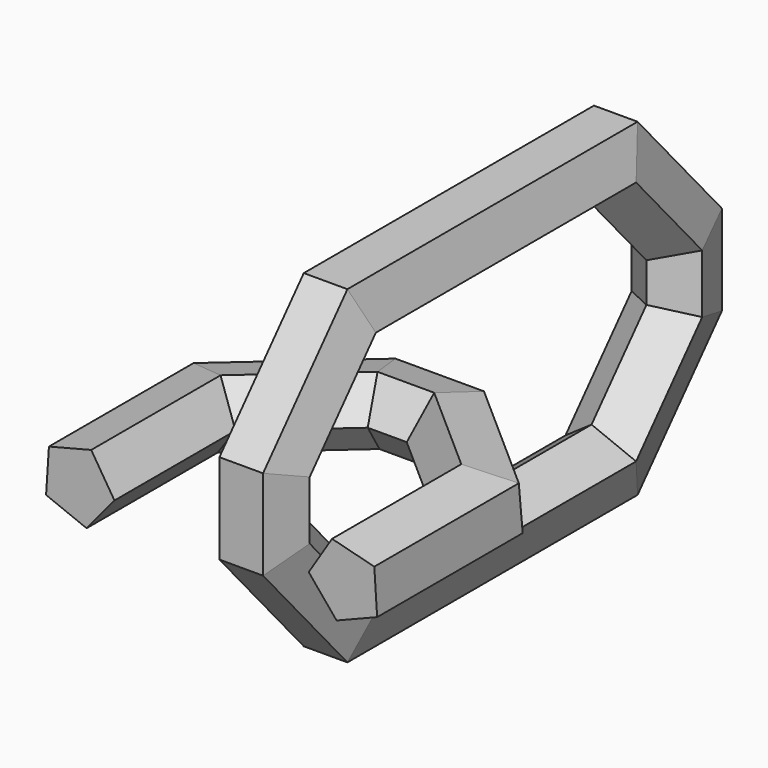
from build123d import *


with BuildPart() as f2:
    # F2: sweep along a path in F1
    with BuildLine(Plane.YZ) as f2_path:
        Line((-9.7155, 6.3547654803), (-9.7155, 3.8052345197))
        Line((-9.7155, 3.8052345197), (-6.35, 0))
        Line((-6.35, 0), (6.35, 0))
        Line((6.35, 0), (9.7155, 3.8052345197))
        Line((9.7155, 3.8052345197), (9.7155, 6.3547654803))
        Line((9.7155, 6.3547654803), (6.35, 10.16))
        Line((6.35, 10.16), (-6.35, 10.16))
        Line((-6.35, 10.16), (-9.7155, 6.3547654803))
    # F0 (on Front) → F2 (sweep)
    with BuildSketch(Plane.XZ):
        Polygon((0, 1.4040774674), (-1.3353570248, 0.4338837989), (-0.8252960284, -1.1359225326), (0.8252960284, -1.1359225326), (1.3353570248, 0.4338837989), align=None)
    sweep(path=f2_path.line, transition=Transition.RIGHT)


with BuildPart() as f6:
    # F6: sweep along a path in F4
    with BuildLine(Plane.XY.offset(5.08)) as f6_path:
        Line((0, -2.54), (-1.27, -2.54))
        Line((-1.27, -2.54), (-5.08, -5.9001041651))
        Line((-5.08, -5.9001041651), (-5.08, -12.2555))
    # F5 (on Right) → F6 (sweep)
    with BuildSketch(Plane.YZ):
        Polygon((-3.0658560668, 6.3843532686), (-3.9472605593, 4.9887959395), (-2.8923756347, 3.7192795221), (-1.3590164046, 4.330232556), (-1.466233208, 5.9773387138), align=None)
    sweep(path=f6_path.line, transition=Transition.RIGHT)

    # F7: sweep along a path in F4
    with BuildLine(Plane.XY.offset(5.08)) as f7_path:
        Line((0, -2.54), (1.27, -2.54))
        Line((1.27, -2.54), (5.08, -5.9001041651))
        Line((5.08, -5.9001041651), (5.08, -12.2501041651))
    # F5 (on Right) → F7 (sweep)
    with BuildSketch(Plane.YZ):
        Polygon((-3.0658560668, 6.3843532686), (-3.9472605593, 4.9887959395), (-2.8923756347, 3.7192795221), (-1.3590164046, 4.330232556), (-1.466233208, 5.9773387138), align=None)
    sweep(path=f7_path.line, transition=Transition.RIGHT)


solid = Compound([f2.part, f6.part])
